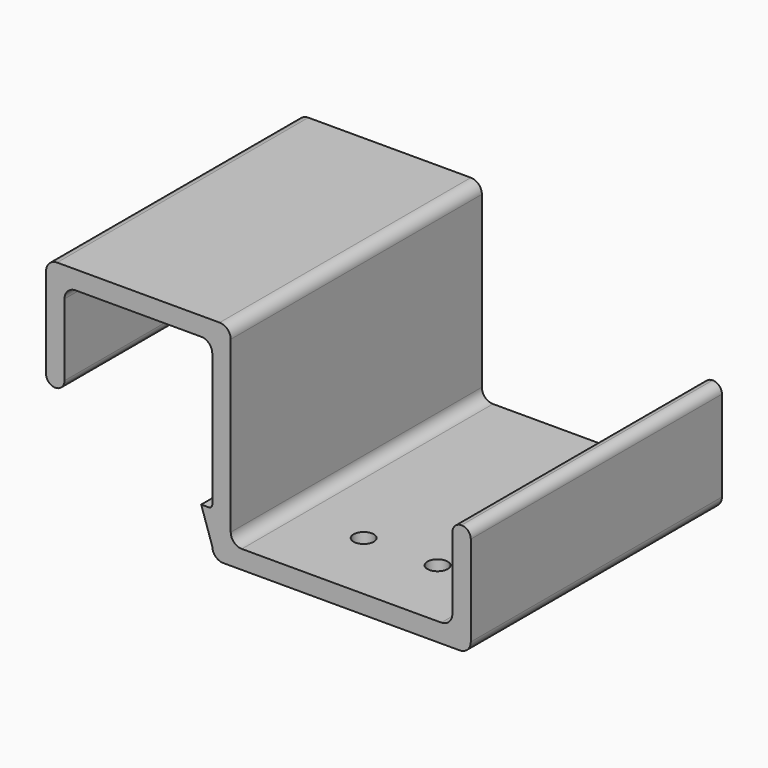
from build123d import *

# Parameters (mm, degrees)
F1_DEPTH = 42.5
F2_R     = 2.75
F3_DEPTH = 5.001


with BuildPart() as f1:
    # F0 (on Front) → F1 (new body, symmetric)
    with BuildSketch(Plane.XZ):
        with BuildLine():
            Line((81.504221, 1.853635), (81.504221, 26.353635))
            ThreePointArc((81.504221, 26.353635), (80.771988, 28.121402), (79.004221, 28.853635))
            ThreePointArc((79.004221, 28.853635), (77.236454, 28.121402), (76.504221, 26.353635))
            Line((76.504221, 26.353635), (76.504221, 6.853635))
            ThreePointArc((76.504221, 6.853635), (75.625541, 4.732315), (73.504221, 3.853635))
            Line((73.504221, 3.853635), (19.504221, 3.853635))
            ThreePointArc((19.504221, 3.853635), (17.382901, 4.732315), (16.504221, 6.853635))
            Line((16.504221, 6.853635), (16.504221, 52.853635))
            ThreePointArc((16.504221, 52.853635), (15.625541, 54.974956), (13.504221, 55.853635))
            Line((13.504221, 55.853635), (-30.495779, 55.853635))
            ThreePointArc((-30.495779, 55.853635), (-32.617099, 54.974956), (-33.495779, 52.853635))
            Line((-33.495779, 52.853635), (-33.495779, 28.353635))
            ThreePointArc((-33.495779, 28.353635), (-32.763546, 26.585868), (-30.995779, 25.853635))
            ThreePointArc((-30.995779, 25.853635), (-29.228012, 26.585868), (-28.495779, 28.353635))
            Line((-28.495779, 28.353635), (-28.495779, 47.853635))
            ThreePointArc((-28.495779, 47.853635), (-27.617099, 49.974956), (-25.495779, 50.853635))
            Line((-25.495779, 50.853635), (8.504221, 50.853635))
            ThreePointArc((8.504221, 50.853635), (10.625541, 49.974956), (11.504221, 47.853635))
            Line((11.504221, 47.853635), (11.504221, 11.853635))
            ThreePointArc((11.504221, 11.853635), (11.211328, 11.146529), (10.504221, 10.853635))
            Line((10.504221, 10.853635), (8.504221, 10.853635))
            Line((8.504221, 10.853635), (11.504221, 1.853635))
            ThreePointArc((11.504221, 1.853635), (12.382901, -0.267685), (14.504221, -1.146365))
            Line((14.504221, -1.146365), (78.504221, -1.146365))
            ThreePointArc((78.504221, -1.146365), (80.625541, -0.267685), (81.504221, 1.853635))
        make_face()
    extrude(amount=F1_DEPTH, both=True)

    # F2 (on face) → F3 (cut, through all)
    with BuildSketch(Plane.XY.offset(3.853635)):
        with Locations((36.504221, -22.5)):
            Circle(F2_R)
        with Locations((56.504221, -22.5)):
            Circle(F2_R)
    extrude(amount=-F3_DEPTH, mode=Mode.SUBTRACT)


solid = f1.part
